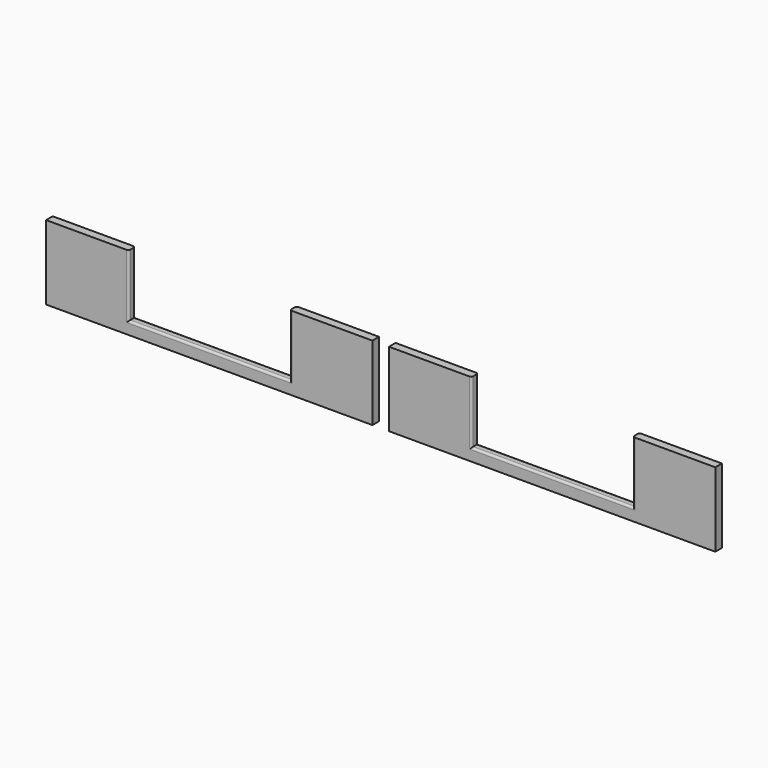
from build123d import *

# Parameters (mm, degrees)
EXTRUDE008_DEPTH = 2
FILLET005_R      = 0.5


with BuildPart() as front_side001:
    # Sketch021 → Extrude008 (new body)
    with BuildSketch(Plane.XZ):
        Polygon((0, 2), (0, 20), (20, 20), (20, 5), (59, 5), (59, 20), (79, 20), (79, 2), align=None)
        Polygon((162, 2), (162, 20), (142, 20), (142, 5), (103, 5), (103, 20), (83, 20), (83, 2), align=None)
    extrude(amount=-EXTRUDE008_DEPTH)


with BuildPart() as back_row001:
    # Part__Mirroring002: instance of front side001
    add(front_side001.part.mirror(Plane(origin=(0, 0, 0), x_dir=(1, 0, 0), z_dir=(0, 1, 0))))


with BuildPart() as back_row001_1:
    # Part__Mirroring002 placement: moved
    add(back_row001.part.moved(Location((0, 44, 0))))

    # Fillet005
    fillet005_edges = [back_row001_1.edges().sort_by_distance(p)[0] for p in [
        (142, 44, 12.5),
        (142, 42, 12.5),
        (122.5, 44, 5),
        (122.5, 42, 5),
        (103, 44, 12.5),
        (103, 42, 12.5),
        (20, 44, 12.5),
        (20, 42, 12.5),
        (39.5, 44, 5),
        (39.5, 42, 5),
        (59, 44, 12.5),
        (59, 42, 12.5),
    ]]
    fillet(fillet005_edges, radius=FILLET005_R)


solid = back_row001_1.part
